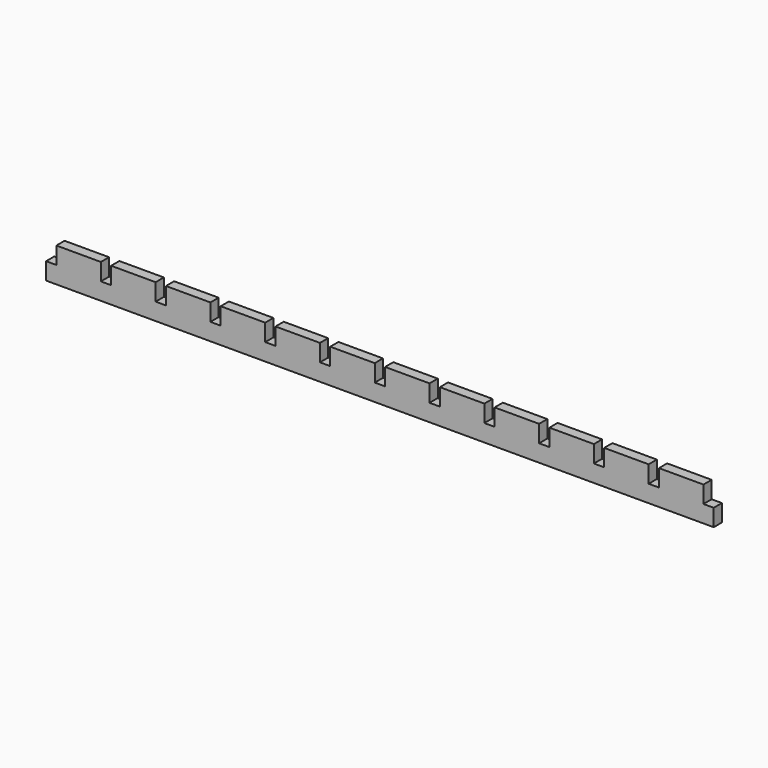
from build123d import *

# Parameters (mm, degrees)
F0_W     = 1.5
F0_H     = 5
F0_W_2   = 3
F1_DEPTH = 3


with BuildPart() as f1:
    # F0 (on Front) → F1 (new body)
    with BuildSketch(Plane.XZ):
        Polygon((1.5, 5), (1.5, 0), (11.5, 0), (14.5, 0), (14.5, 5), (14.5, 10), (11.5, 10), (1.5, 10), align=None)
        Polygon((17.5, 5), (17.5, 0), (20.5, 0), (30.5, 0), (30.5, 5), (30.5, 10), (20.5, 10), (17.5, 10), align=None)
        Polygon((33.5, 5), (33.5, 0), (43.5, 0), (46.5, 0), (46.5, 5), (46.5, 10), (33.5, 10), align=None)
        Polygon((49.5, 5), (49.5, 0), (52.5, 0), (62.5, 0), (62.5, 5), (62.5, 10), (49.5, 10), align=None)
        Polygon((78.5, 10), (65.5, 10), (65.5, 5), (65.5, 0), (75.5, 0), (78.5, 0), (78.5, 5), align=None)
        Polygon((94.5, 10), (81.5, 10), (81.5, 5), (81.5, 0), (84.5, 0), (94.5, 0), (94.5, 5), align=None)
        Polygon((110.5, 10), (97.5, 10), (97.5, 5), (97.5, 0), (107.5, 0), (110.5, 0), (110.5, 5), align=None)
        Polygon((126.5, 10), (113.5, 10), (113.5, 5), (113.5, 0), (116.5, 0), (126.5, 0), (126.5, 5), align=None)
        Polygon((142.5, 10), (129.5, 10), (129.5, 5), (129.5, 0), (139.5, 0), (142.5, 0), (142.5, 5), align=None)
        Polygon((158.5, 10), (145.5, 10), (145.5, 5), (145.5, 0), (148.5, 0), (158.5, 0), (158.5, 5), align=None)
        Polygon((171.5, 10), (161.5, 10), (161.5, 5), (161.5, 0), (171.5, 0), (174.5, 0), (174.5, 5), (174.5, 10), align=None)
        Polygon((180.5, 10), (177.5, 10), (177.5, 5), (177.5, 0), (180.5, 0), (190.5, 0), (190.5, 5), (190.5, 10), align=None)
        with Locations((0.75, 2.5)):
            Rectangle(F0_W, F0_H)
        with Locations((-0.75, 2.5)):
            Rectangle(F0_W, F0_H)
        with Locations((16, 2.5)):
            Rectangle(F0_W_2, F0_H)
        with Locations((32, 2.5)):
            Rectangle(F0_W_2, F0_H)
        with Locations((48, 2.5)):
            Rectangle(F0_W_2, F0_H)
        with Locations((64, 2.5)):
            Rectangle(F0_W_2, F0_H)
        with Locations((80, 2.5)):
            Rectangle(F0_W_2, F0_H)
        with Locations((96.75, 2.5)):
            Rectangle(F0_W, F0_H)
        with Locations((112, 2.5)):
            Rectangle(F0_W_2, F0_H)
        with Locations((128, 2.5)):
            Rectangle(F0_W_2, F0_H)
        with Locations((144, 2.5)):
            Rectangle(F0_W_2, F0_H)
        with Locations((160, 2.5)):
            Rectangle(F0_W_2, F0_H)
        with Locations((95.25, 2.5)):
            Rectangle(F0_W, F0_H)
        with Locations((176, 2.5)):
            Rectangle(F0_W_2, F0_H)
        with Locations((191.25, 2.5)):
            Rectangle(F0_W, F0_H)
        with Locations((192.75, 2.5)):
            Rectangle(F0_W, F0_H)
    extrude(amount=F1_DEPTH)


solid = f1.part
